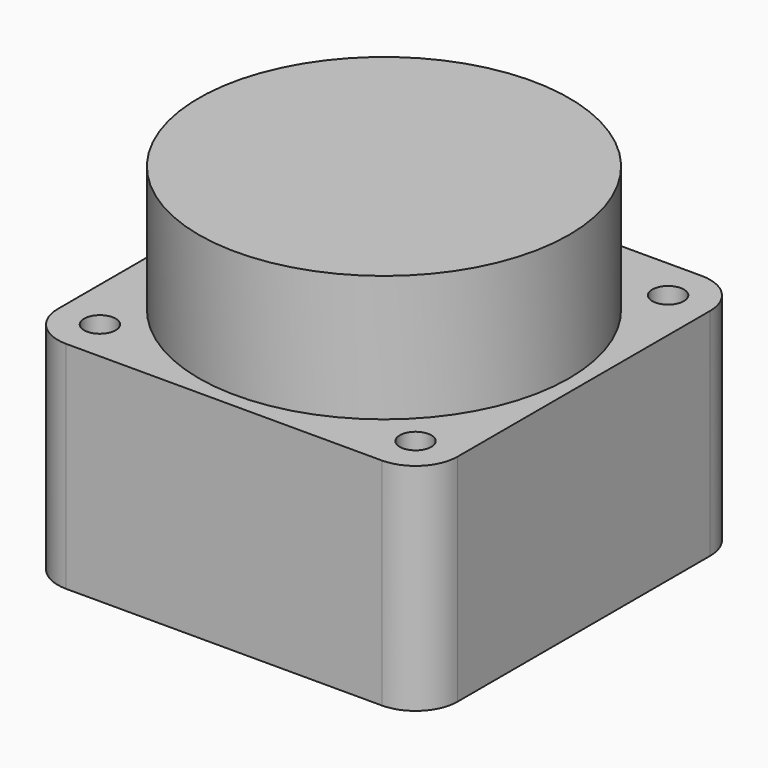
from build123d import *

# Parameters (mm, degrees)
SKETCH_W     = 38
SKETCH_H     = 38
SKETCH_R     = 1.5
PAD_DEPTH    = 20.5
SKETCH001_R  = 17.6
PAD001_DEPTH = 12
FILLET_R     = 4


with BuildPart() as part:
    # Sketch → Pad (new body)
    with BuildSketch(Plane.XY):
        with Locations((29, 29)):
            Rectangle(SKETCH_W, SKETCH_H)
        with Locations((14, 14)):
            Circle(SKETCH_R, mode=Mode.SUBTRACT)
        with Locations((14, 44)):
            Circle(SKETCH_R, mode=Mode.SUBTRACT)
        with Locations((44, 44)):
            Circle(SKETCH_R, mode=Mode.SUBTRACT)
        with Locations((44, 14)):
            Circle(SKETCH_R, mode=Mode.SUBTRACT)
    extrude(amount=PAD_DEPTH)

    # Sketch001 (on Face10 of Pad) → Pad001 (join)
    with BuildSketch(Plane.XY.offset(20.5)):
        with Locations((29, 29)):
            Circle(SKETCH001_R)
    extrude(amount=PAD001_DEPTH)

    # Fillet
    fillet_edges = [part.edges().sort_by_distance(p)[0] for p in [
        (48, 10, 10.25),
        (48, 48, 10.25),
        (10, 48, 10.25),
        (10, 10, 10.25),
    ]]
    fillet(fillet_edges, radius=FILLET_R)


solid = part.part
